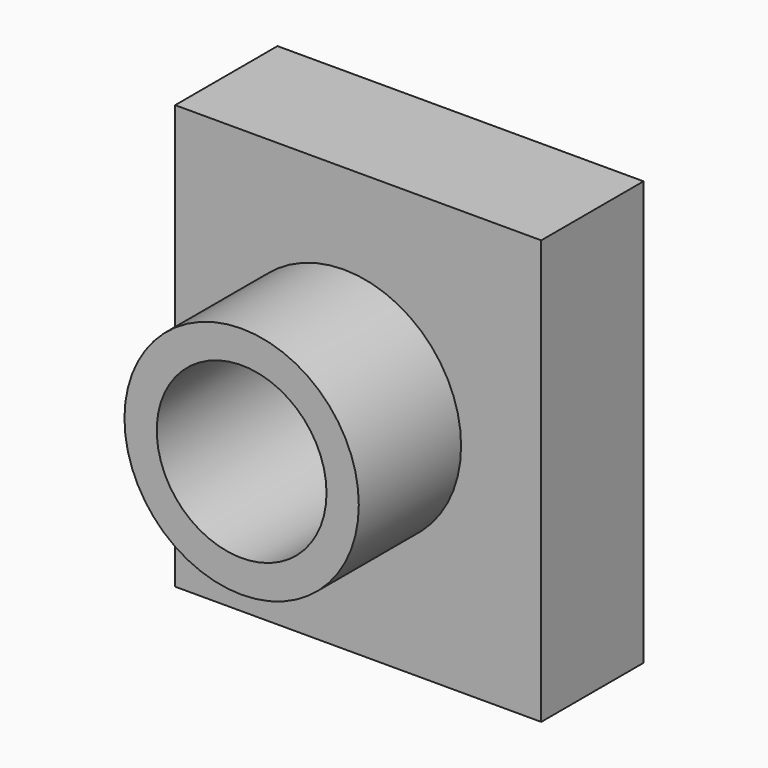
from build123d import *

# Parameters (mm, degrees)
F0_W     = 72.716318
F0_H     = 84.215194
F1_DEPTH = 25.4
F2_R     = 23.274409
F3_DEPTH = 50.8
F4_R     = 16.862777
F5_DEPTH = 50.801


with BuildPart() as f1:
    # F0 (on Front) → F1 (new body)
    with BuildSketch(Plane.XZ):
        with Locations((2.836455, -0.9862)):
            Rectangle(F0_W, F0_H)
    extrude(amount=F1_DEPTH)

    # F2 (on Front) → F3 (join)
    with BuildSketch(Plane.XZ):
        Circle(F2_R)
    extrude(amount=F3_DEPTH)

    # F4 (on face) → F5 (cut, through all)
    with BuildSketch(Plane.XZ.offset(50.8)):
        Circle(F4_R)
    extrude(amount=-F5_DEPTH, mode=Mode.SUBTRACT)


solid = f1.part
